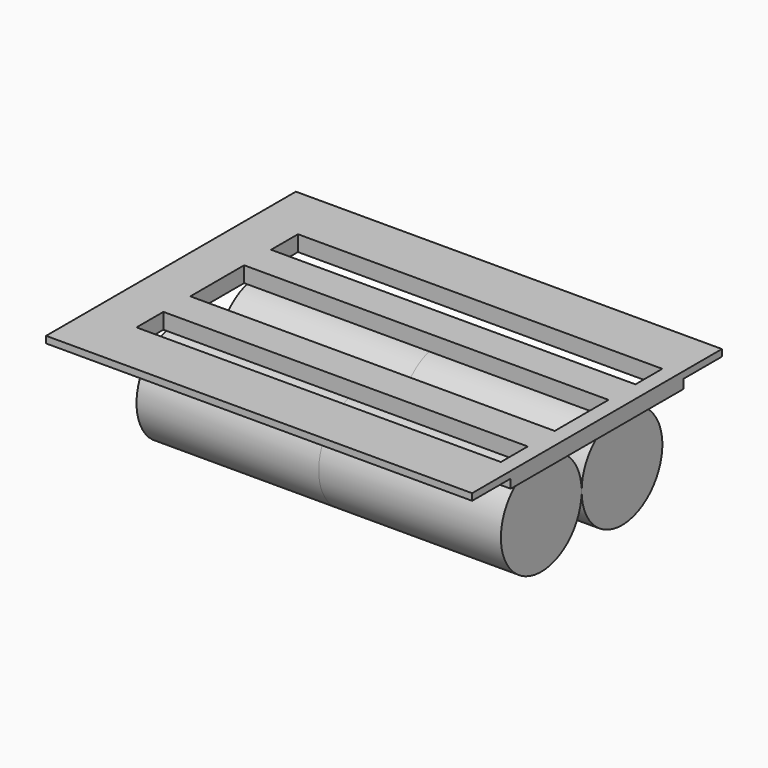
from build123d import *

# Parameters (mm, degrees)
F0_R     = 9
F1_DEPTH = 32.5
F2_W     = 76
F2_H     = 38.5
F2_W_2   = 65
F2_H_2   = 6
F3_DEPTH = 2.8
F4_W     = 76
F4_H     = 8.6
F5_DEPTH = 1.2


with BuildPart() as f1:
    # F0 (on Right) → F1 (new body, symmetric)
    with BuildSketch(Plane.YZ):
        with BuildLine():
            ThreePointArc((0, -9.105528), (9, -18.105528), (18, -9.105528))
            ThreePointArc((18, -9.105528), (9, -0.105528), (0, -9.105528))
        make_face()
        with Locations((-9, -9.105528)):
            Circle(F0_R)
    extrude(amount=F1_DEPTH, both=True)


with BuildPart() as f3:
    # F2 (on Top) → F3 (new body)
    with BuildSketch(Plane.XY):
        with Locations((-2.75, 0)):
            Rectangle(F2_W, F2_H)
        Polygon((-32.5, 12), (-32.5, 18), (32.5, 18), (32.5, 12), (32.5, 6), (32.5, 0), (32.5, -6), (32.5, -12), (32.5, -18), (-32.5, -18), (-32.5, -12), (-32.5, -6), (-32.5, 0), (-32.5, 6), align=None, mode=Mode.SUBTRACT)
        with Locations((0, -9)):
            Rectangle(F2_W_2, F2_H_2)
        with Locations((0, 9)):
            Rectangle(F2_W_2, F2_H_2)
    extrude(amount=F3_DEPTH)

    # F4 (on face) → F5 (join)
    with BuildSketch(Plane.XY.offset(2.8)):
        with Locations((-2.75, 23.55)):
            Rectangle(F4_W, F4_H)
        with Locations((-2.75, -23.55)):
            Rectangle(F4_W, F4_H)
    extrude(amount=-F5_DEPTH)


solid = Compound([f1.part, f3.part])
